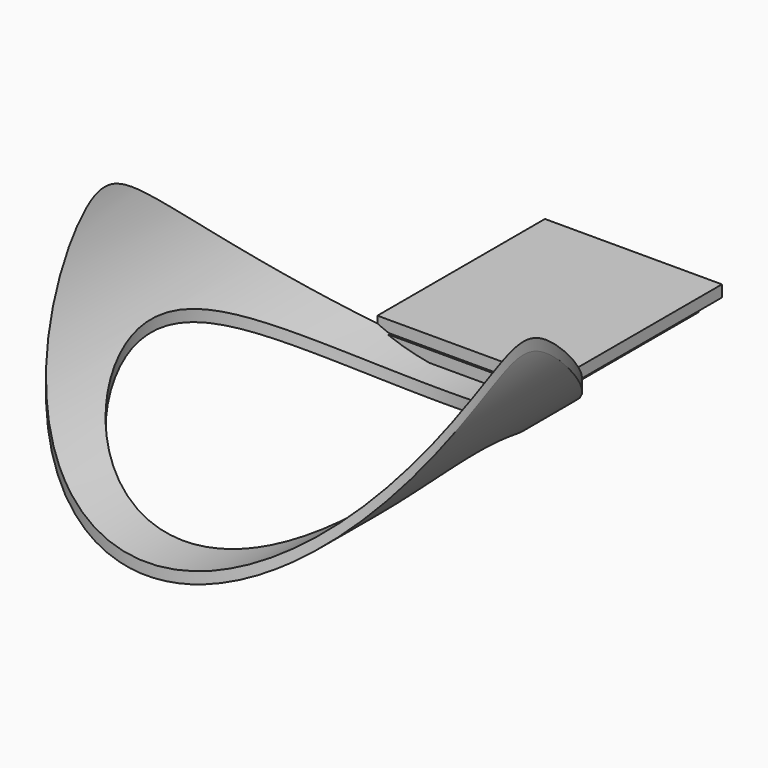
from build123d import *

# Parameters (mm, degrees)
SKETCH_R             = 18
PAD_DEPTH            = 30
POCKET_DEPTH         = 18.001
POCKET_DEPTH_BACK    = -18.001
POCKET001_DEPTH      = 18.001
POCKET001_DEPTH_BACK = -18.001
SKETCH015_R          = 14
POCKET002_DEPTH      = 0.001
POCKET002_DEPTH_BACK = -19.001
SKETCH016_W          = 15.214258
SKETCH016_H          = 18
PAD001_DEPTH         = 1
SKETCH017_W          = 13.03631
SKETCH017_H          = 17
PAD002_DEPTH         = 1


with BuildPart() as part:
    # Sketch → Pad (new body)
    with BuildSketch(Plane.XY):
        Circle(SKETCH_R)
    extrude(amount=PAD_DEPTH)

    # Sketch013 → Pocket (cut, two sides)
    with BuildSketch(Plane.XZ) as pocket_sk:
        with BuildLine():
            Line((-18, 34), (18, 34))
            Line((18, 34), (18, 19))
            ThreePointArc((-18, 19), (0, 3.751712), (18, 19))
            Line((-18, 19), (-18, 34))
        make_face()
    extrude(amount=-POCKET_DEPTH, mode=Mode.SUBTRACT)
    extrude(pocket_sk.sketch, amount=-POCKET_DEPTH_BACK, mode=Mode.SUBTRACT)

    # Sketch014 → Pocket001 (cut, two sides)
    with BuildSketch(Plane.XZ) as pocket001_sk:
        with BuildLine():
            Line((-18, 34), (18, 34))
            Line((18, 34), (18, 19))
            ThreePointArc((-18, 19), (0, 3.751712), (18, 19))
            Line((-18, 19), (-18, 34))
        make_face()
        with BuildLine():
            Line((-18, 0), (-18, 18))
            ThreePointArc((-18, 18), (0, 2.751712), (18, 18))
            Line((18, 18), (18, 0))
            Line((18, 0), (-18, 0))
        make_face()
    extrude(amount=-POCKET001_DEPTH, mode=Mode.SUBTRACT)
    extrude(pocket001_sk.sketch, amount=-POCKET001_DEPTH_BACK, mode=Mode.SUBTRACT)

    # Sketch015 → Pocket002 (cut, two sides)
    with BuildSketch(Plane.XY) as pocket002_sk:
        Circle(SKETCH015_R)
    extrude(amount=-POCKET002_DEPTH, mode=Mode.SUBTRACT)
    extrude(pocket002_sk.sketch, amount=-POCKET002_DEPTH_BACK, mode=Mode.SUBTRACT)

    # Sketch016 → Pad001 (join)
    with BuildSketch(Plane.XY.offset(5)):
        with Locations((0, 25.31354)):
            Rectangle(SKETCH016_W, SKETCH016_H)
    extrude(amount=PAD001_DEPTH)

    # Sketch017 → Pad002 (join)
    with BuildSketch(Plane.XY.offset(5)):
        with Locations((0, 24.632999)):
            Rectangle(SKETCH017_W, SKETCH017_H)
    extrude(amount=-PAD002_DEPTH)


solid = part.part
